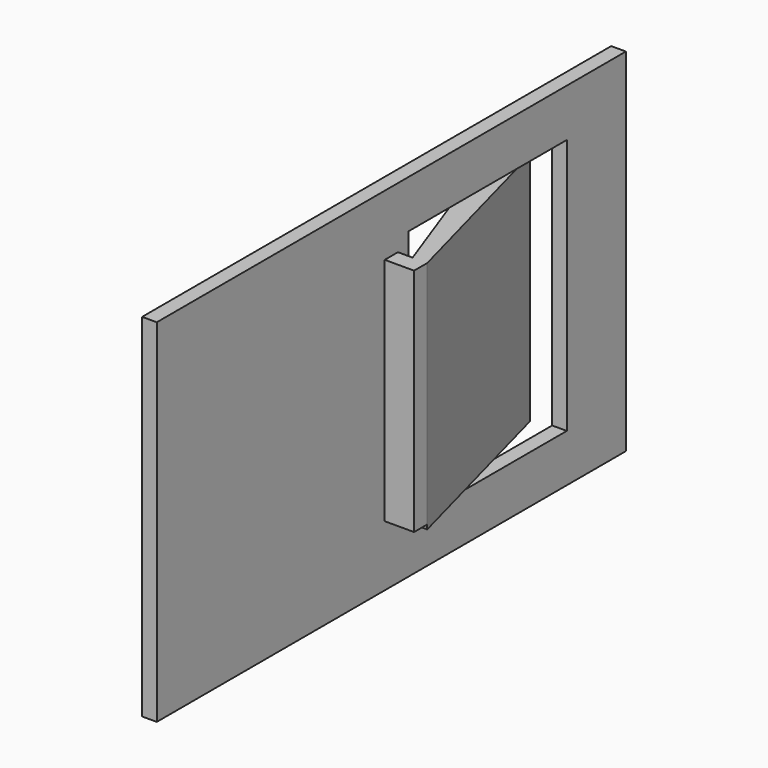
from build123d import *

# Parameters (mm, degrees)
F0_W          = 1.5875
F0_H          = 38.1
F1_DEPTH      = 63.5
F2_W          = 1.78622
F2_H          = 24.92076
F3_DEPTH      = 3.175
F5_W          = 21.454677
F5_H          = 27.739912
F6_DEPTH      = 25.4
F6_DEPTH_BACK = 25.4
F7_DEPTH      = 25.4


with BuildPart() as f1:
    # F0 (on Front) → F1 (new body)
    with BuildSketch(Plane.XZ):
        Rectangle(F0_W, F0_H)
    extrude(amount=F1_DEPTH)

    # F2 (on face) → F3 (join)
    with BuildSketch(Plane.YZ.offset(0.79375)):
        with Locations((-31.75, 0)):
            Rectangle(F2_W, F2_H)
    extrude(amount=F3_DEPTH)

    # F5 (on face) → F6 (cut, two sides)
    with BuildSketch(Plane.YZ.offset(0.79375)) as f6_sk:
        with Locations((-18.722475, 0)):
            Rectangle(F5_W, F5_H)
    extrude(amount=-F6_DEPTH, mode=Mode.SUBTRACT)
    extrude(f6_sk.sketch, amount=-F6_DEPTH_BACK, mode=Mode.SUBTRACT)

    # F4 (on face) → F7 (join)
    with BuildSketch(Plane.XY.offset(12.46038)):
        Polygon((2.38125, -30.85689), (3.96875, -30.85689), (-1.625961, -9.949325), (-2.755997, -10.251714), (-0.909572, -21.768624), align=None)
    extrude(amount=-F7_DEPTH)


solid = f1.part
